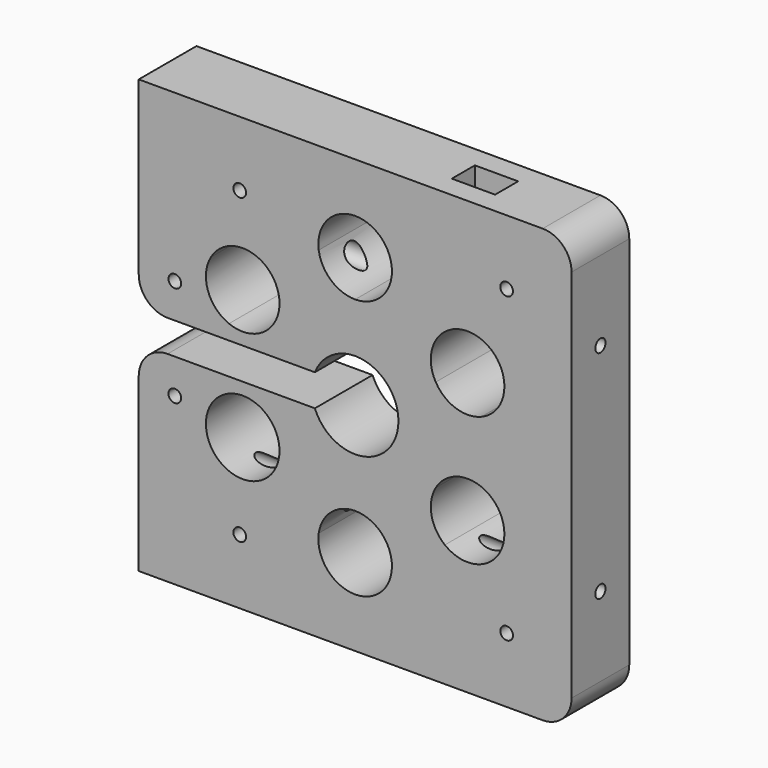
from build123d import *

# Parameters (mm, degrees)
F0_W      = 300
F0_H      = 300
F1_DEPTH  = 50
F3_DEPTH  = 50
F4_R      = 5.5
F5_DEPTH  = 2
F6_R      = 3.5
F7_DEPTH  = 50
F8_R      = 20
F10_D     = 8.8
F10_DEPTH = 20
F10_TIP   = 2.6437867237
F12_D     = 8.8
F12_DEPTH = 20
F12_TIP   = 2.6437867237
F14_DEPTH = 60
F15_R     = 20
F17_D     = 8.8
F17_DEPTH = 320
F17_TIP   = 2.6437867237
F19_D     = 14
F19_DEPTH = 275
F19_TIP   = 4.2060243332
F20_W     = 30
F20_H     = 20
F21_DEPTH = 25


with BuildPart() as f1:
    # F0 (on Front) → F1 (new body)
    with BuildSketch(Plane.XZ):
        Rectangle(F0_W, F0_H)
    extrude(amount=F1_DEPTH)

    # F2 (on face) → F3 (cut)
    with BuildSketch(Plane.XZ.offset(50)):
        with BuildLine():
            ThreePointArc((55.8586385441, 32.25), (69.609943325, 20.8997497965), (87.4351784027, 21.3328286376))
            ThreePointArc((87.4351784027, 21.3328286376), (83.5311930437, 33.5043249252), (77.9422863406, 45))
            Line((77.9422863406, 45), (55.8586385441, 32.25))
        make_face()
        with BuildLine():
            ThreePointArc((77.9422863406, 45), (83.5311930437, 33.5043249252), (87.4351784027, 21.3328286376))
            ThreePointArc((87.4351784027, 21.3328286376), (99.0647713694, 30.7139709433), (103.4422863406, 45))
            ThreePointArc((103.4422863406, 45), (102.573394911, 51.5998856501), (100.0259341371, 57.75))
            Line((100.0259341371, 57.75), (77.9422863406, 45))
        make_face()
        with BuildLine():
            Line((55.8586385441, 32.25), (77.9422863406, 45))
            ThreePointArc((77.9422863406, 45), (70.7811930437, 55.5879727217), (62.1923607361, 65.0546713624))
            ThreePointArc((62.1923607361, 65.0546713624), (52.904685919, 49.8341043772), (55.8586385441, 32.25))
        make_face()
        with BuildLine():
            ThreePointArc((62.1923607361, 65.0546713624), (70.7811930437, 55.5879727217), (77.9422863406, 45))
            Line((77.9422863406, 45), (100.0259341371, 57.75))
            ThreePointArc((100.0259341371, 57.75), (82.7763907178, 70.0376004216), (62.1923607361, 65.0546713624))
        make_face()
        with BuildLine():
            ThreePointArc((0, 90), (12.75, 89.0922976469), (25.2428176666, 86.3875))
            ThreePointArc((25.2428176666, 86.3875), (25.4356231543, 88.1891784321), (25.5, 90))
            ThreePointArc((25.5, 90), (-1.8108215679, 115.4356231543), (-25.2428176666, 86.3875))
            ThreePointArc((-25.2428176666, 86.3875), (-12.75, 89.0922976469), (0, 90))
        make_face()
        with BuildLine():
            ThreePointArc((0, 64.5), (16.705257406, 70.7338541737), (25.2428176666, 86.3875))
            ThreePointArc((25.2428176666, 86.3875), (12.75, 89.0922976469), (0, 90))
            Line((0, 90), (0, 64.5))
        make_face()
        with BuildLine():
            ThreePointArc((-25.2428176666, 86.3875), (-16.705257406, 70.7338541737), (0, 64.5))
            Line((0, 64.5), (0, 90))
            ThreePointArc((0, 90), (-12.75, 89.0922976469), (-25.2428176666, 86.3875))
        make_face()
        with BuildLine():
            Line((-77.9422863406, 45), (-55.8586385441, 32.25))
            ThreePointArc((-55.8586385441, 32.25), (-53.3111777702, 38.4001143499), (-52.4422863406, 45))
            ThreePointArc((-52.4422863406, 45), (-55.0089797439, 56.1495940977), (-62.1923607361, 65.0546713624))
            ThreePointArc((-62.1923607361, 65.0546713624), (-70.7811930437, 55.5879727217), (-77.9422863406, 45))
        make_face()
        with BuildLine():
            Line((-100.0259341371, 57.75), (-77.9422863406, 45))
            ThreePointArc((-77.9422863406, 45), (-70.7811930437, 55.5879727217), (-62.1923607361, 65.0546713624))
            ThreePointArc((-62.1923607361, 65.0546713624), (-82.7763907178, 70.0376004216), (-100.0259341371, 57.75))
        make_face()
        with BuildLine():
            ThreePointArc((-87.4351784027, 21.3328286376), (-69.609943325, 20.8997497965), (-55.8586385441, 32.25))
            Line((-55.8586385441, 32.25), (-77.9422863406, 45))
            ThreePointArc((-77.9422863406, 45), (-83.5311930437, 33.5043249252), (-87.4351784027, 21.3328286376))
        make_face()
        with BuildLine():
            ThreePointArc((-87.4351784027, 21.3328286376), (-83.5311930437, 33.5043249252), (-77.9422863406, 45))
            Line((-77.9422863406, 45), (-100.0259341371, 57.75))
            ThreePointArc((-100.0259341371, 57.75), (-102.0425365441, 36.6676569844), (-87.4351784027, 21.3328286376))
        make_face()
        with BuildLine():
            ThreePointArc((-62.1923607361, -65.0546713624), (-70.7811930437, -55.5879727217), (-77.9422863406, -45))
            ThreePointArc((-77.9422863406, -45), (-83.5311930437, -33.5043249252), (-87.4351784027, -21.3328286376))
            ThreePointArc((-87.4351784027, -21.3328286376), (-100.0259341371, -57.75), (-62.1923607361, -65.0546713624))
        make_face()
        with BuildLine():
            Line((-77.9422863406, -45), (-55.8586385441, -32.25))
            ThreePointArc((-55.8586385441, -32.25), (-69.609943325, -20.8997497965), (-87.4351784027, -21.3328286376))
            ThreePointArc((-87.4351784027, -21.3328286376), (-83.5311930437, -33.5043249252), (-77.9422863406, -45))
        make_face()
        with BuildLine():
            ThreePointArc((-52.4422863406, -45), (-53.3111777702, -38.4001143499), (-55.8586385441, -32.25))
            Line((-55.8586385441, -32.25), (-77.9422863406, -45))
            ThreePointArc((-77.9422863406, -45), (-70.7811930437, -55.5879727217), (-62.1923607361, -65.0546713624))
            ThreePointArc((-62.1923607361, -65.0546713624), (-55.0089797439, -56.1495940977), (-52.4422863406, -45))
        make_face()
        with BuildLine():
            ThreePointArc((25.5, -90), (25.4356231543, -88.1891784321), (25.2428176666, -86.3875))
            ThreePointArc((25.2428176666, -86.3875), (12.75, -89.0922976469), (0, -90))
            ThreePointArc((0, -90), (-12.75, -89.0922976469), (-25.2428176666, -86.3875))
            ThreePointArc((-25.2428176666, -86.3875), (-1.8108215679, -115.4356231543), (25.5, -90))
        make_face()
        with BuildLine():
            Line((0, -90), (0, -64.5))
            ThreePointArc((0, -64.5), (-16.705257406, -70.7338541737), (-25.2428176666, -86.3875))
            ThreePointArc((-25.2428176666, -86.3875), (-12.75, -89.0922976469), (0, -90))
        make_face()
        with BuildLine():
            ThreePointArc((25.2428176666, -86.3875), (16.705257406, -70.7338541737), (0, -64.5))
            Line((0, -64.5), (0, -90))
            ThreePointArc((0, -90), (12.75, -89.0922976469), (25.2428176666, -86.3875))
        make_face()
        with BuildLine():
            ThreePointArc((103.4422863406, -45), (99.0647713694, -30.7139709433), (87.4351784027, -21.3328286376))
            ThreePointArc((87.4351784027, -21.3328286376), (83.5311930437, -33.5043249252), (77.9422863406, -45))
            ThreePointArc((77.9422863406, -45), (70.7811930437, -55.5879727217), (62.1923607361, -65.0546713624))
            ThreePointArc((62.1923607361, -65.0546713624), (89.0918804383, -67.9333065967), (103.4422863406, -45))
        make_face()
        with BuildLine():
            ThreePointArc((62.1923607361, -65.0546713624), (70.7811930437, -55.5879727217), (77.9422863406, -45))
            Line((77.9422863406, -45), (55.8586385441, -32.25))
            ThreePointArc((55.8586385441, -32.25), (52.904685919, -49.8341043772), (62.1923607361, -65.0546713624))
        make_face()
        with BuildLine():
            ThreePointArc((77.9422863406, -45), (83.5311930437, -33.5043249252), (87.4351784027, -21.3328286376))
            ThreePointArc((87.4351784027, -21.3328286376), (69.609943325, -20.8997497965), (55.8586385441, -32.25))
            Line((55.8586385441, -32.25), (77.9422863406, -45))
        make_face()
    extrude(amount=-F3_DEPTH, mode=Mode.SUBTRACT)

    # F4 (on face) → F5 (cut)
    with BuildSketch(Plane(origin=(-150, 0, 0), x_dir=(0, -1, 0), z_dir=(-1, 0, 0))):
        with Locations((25, -110)):
            Circle(F4_R)
    extrude(amount=-F5_DEPTH, mode=Mode.SUBTRACT)

    # F6 (on face) → F7 (cut)
    with BuildSketch(Plane.XZ.offset(50)):
        with Locations((-80, 105)):
            Circle(F6_R)
        with Locations((105, 105)):
            Circle(F6_R)
        with Locations((-80, -105)):
            Circle(F6_R)
        with Locations((105, -105)):
            Circle(F6_R)
        Circle(F6_R)
        with Locations((-125, 35)):
            Circle(F6_R)
        with Locations((-125, -35)):
            Circle(F6_R)
    extrude(amount=-F7_DEPTH, mode=Mode.SUBTRACT)

    # F8
    f8_edges = [f1.edges().sort_by_distance(p)[0] for p in [
        (150, -25, 150),
        (150, -25, -150),
    ]]
    fillet(f8_edges, radius=F8_R)

    # F10
    with Locations(Plane.XZ.offset(50)):
        with Locations((-80, 105), (105, 105), (0, 0), (-80, -105), (105, -105), (-125, 35), (-125, -35)):
            Hole(F10_D / 2, depth=F10_DEPTH)
            with Locations((0, 0, -(F10_DEPTH + F10_TIP / 2))):  # 118° drill point
                Cone(0, F10_D / 2, F10_TIP, mode=Mode.SUBTRACT)

    # F12
    with Locations(Plane(origin=(0, 0, 0), x_dir=(-1, 0, 0), z_dir=(0, 1, 0))):
        with Locations((-105, 105), (80, 105), (0, 0), (-105, -105), (80, -105), (125, 35), (125, -35)):
            Hole(F12_D / 2, depth=F12_DEPTH)
            with Locations((0, 0, -(F12_DEPTH + F12_TIP / 2))):  # 118° drill point
                Cone(0, F12_D / 2, F12_TIP, mode=Mode.SUBTRACT)

    # F13 (on face) → F14 (cut)
    with BuildSketch(Plane.XZ.offset(50)):
        with BuildLine():
            ThreePointArc((-27.9105714739, -11), (5.5983415304, -29.4730143031), (30, 0))
            ThreePointArc((30, 0), (5.5983415304, 29.4730143031), (-27.9105714739, 11))
            Line((-27.9105714739, 11), (-12.504725717, 11))
            Line((-12.504725717, 11), (-11.9092627428, 0))
            Line((-11.9092627428, 0), (-11.3137997687, -11))
            Line((-11.3137997687, -11), (-27.9105714739, -11))
        make_face()
        with BuildLine():
            Line((-12.504725717, 11), (-27.9105714739, 11))
            ThreePointArc((-27.9105714739, 11), (-29.4730143031, 5.5983415304), (-30, 0))
            Line((-30, 0), (-11.9092627428, 0))
            Line((-11.9092627428, 0), (-12.504725717, 11))
        make_face()
        with BuildLine():
            ThreePointArc((-30, 0), (-29.4730143031, 5.5983415304), (-27.9105714739, 11))
            Line((-27.9105714739, 11), (-150, 11))
            Line((-150, 11), (-150, 0))
            Line((-150, 0), (-30, 0))
        make_face()
        with BuildLine():
            Line((-150, -11), (-27.9105714739, -11))
            ThreePointArc((-27.9105714739, -11), (-29.4730143031, -5.5983415304), (-30, 0))
            Line((-30, 0), (-150, 0))
            Line((-150, 0), (-150, -11))
        make_face()
        with BuildLine():
            ThreePointArc((-30, 0), (-29.4730143031, -5.5983415304), (-27.9105714739, -11))
            Line((-27.9105714739, -11), (-11.3137997687, -11))
            Line((-11.3137997687, -11), (-11.9092627428, 0))
            Line((-11.9092627428, 0), (-30, 0))
        make_face()
    extrude(amount=-F14_DEPTH, mode=Mode.SUBTRACT)

    # F15
    f15_edges = [f1.edges().sort_by_distance(p)[0] for p in [
        (-150, -25, 11),
        (-150, -25, -11),
    ]]
    fillet(f15_edges, radius=F15_R)

    # F17
    with Locations(Plane.YZ.offset(150)):
        with Locations((-25, 75), (-25, -75)):
            Hole(F17_D / 2, depth=F17_DEPTH)
            with Locations((0, 0, -(F17_DEPTH + F17_TIP / 2))):  # 118° drill point
                Cone(0, F17_D / 2, F17_TIP, mode=Mode.SUBTRACT)

    # F19
    with Locations(Plane(origin=(-150, 0, 0), x_dir=(0, -1, 0), z_dir=(-1, 0, 0))):
        with Locations((25, 75), (25, -75)):
            Hole(F19_D / 2, depth=F19_DEPTH)
            with Locations((0, 0, -(F19_DEPTH + F19_TIP / 2))):  # 118° drill point
                Cone(0, F19_D / 2, F19_TIP, mode=Mode.SUBTRACT)

    # F20 (on face) → F21 (cut)
    with BuildSketch(Plane.XY.offset(150)):
        with Locations((70, -25)):
            Rectangle(F20_W, F20_H)
    extrude(amount=-F21_DEPTH, mode=Mode.SUBTRACT)


solid = f1.part
